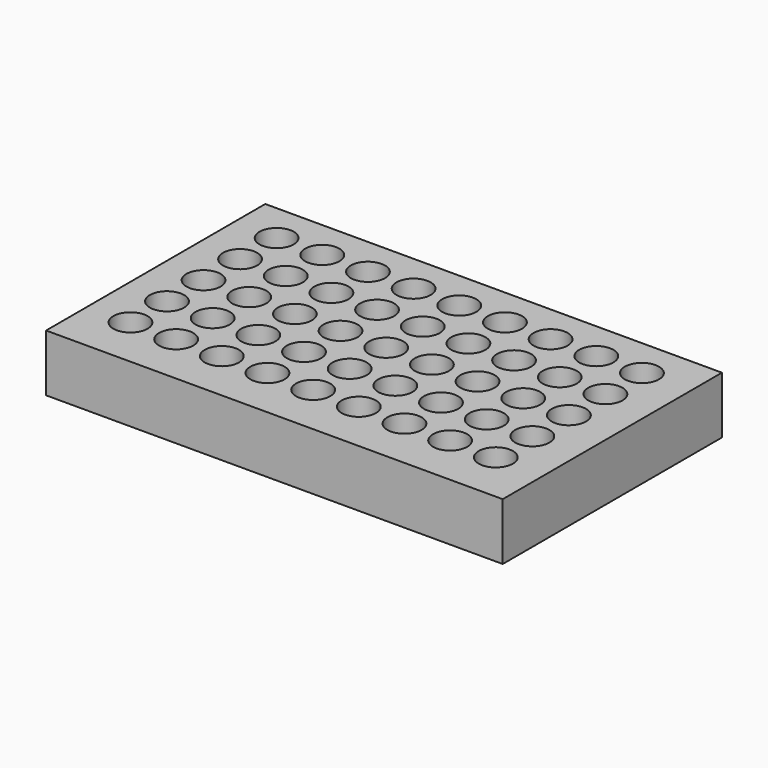
from build123d import *

# Parameters (mm, degrees)
F0_W     = 200
F0_H     = 120
F1_DEPTH = 25
F2_R     = 7.5
F3_DEPTH = 25


with BuildPart() as f1:
    # F0 (on Top) → F1 (new body)
    with BuildSketch(Plane.XY):
        Rectangle(F0_W, F0_H)
    extrude(amount=F1_DEPTH)

    # F2 (on face) → F3 (cut)
    with BuildSketch(Plane.XY.offset(25)):
        with Locations((-81.204847, 42.713255)):
            Circle(F2_R)
        with Locations((-81.204847, 22.713255)):
            Circle(F2_R)
        with Locations((-81.204847, 2.713255)):
            Circle(F2_R)
        with Locations((-81.204847, -17.286745)):
            Circle(F2_R)
        with Locations((-81.204847, -37.286745)):
            Circle(F2_R)
        with Locations((-61.204847, 42.713255)):
            Circle(F2_R)
        with Locations((-61.204847, 22.713255)):
            Circle(F2_R)
        with Locations((-61.204847, 2.713255)):
            Circle(F2_R)
        with Locations((-61.204847, -17.286745)):
            Circle(F2_R)
        with Locations((-61.204847, -37.286745)):
            Circle(F2_R)
        with Locations((-41.204847, 42.713255)):
            Circle(F2_R)
        with Locations((-41.204847, 22.713255)):
            Circle(F2_R)
        with Locations((-41.204847, 2.713255)):
            Circle(F2_R)
        with Locations((-41.204847, -17.286745)):
            Circle(F2_R)
        with Locations((-41.204847, -37.286745)):
            Circle(F2_R)
        with Locations((-21.204847, 42.713255)):
            Circle(F2_R)
        with Locations((-21.204847, 22.713255)):
            Circle(F2_R)
        with Locations((-21.204847, 2.713255)):
            Circle(F2_R)
        with Locations((-21.204847, -17.286745)):
            Circle(F2_R)
        with Locations((-21.204847, -37.286745)):
            Circle(F2_R)
        with Locations((-1.204847, 42.713255)):
            Circle(F2_R)
        with Locations((-1.204847, 22.713255)):
            Circle(F2_R)
        with Locations((-1.204847, 2.713255)):
            Circle(F2_R)
        with Locations((-1.204847, -17.286745)):
            Circle(F2_R)
        with Locations((-1.204847, -37.286745)):
            Circle(F2_R)
        with Locations((18.795153, 42.713255)):
            Circle(F2_R)
        with Locations((18.795153, 22.713255)):
            Circle(F2_R)
        with Locations((18.795153, 2.713255)):
            Circle(F2_R)
        with Locations((18.795153, -17.286745)):
            Circle(F2_R)
        with Locations((18.795153, -37.286745)):
            Circle(F2_R)
        with Locations((38.795153, 42.713255)):
            Circle(F2_R)
        with Locations((38.795153, 22.713255)):
            Circle(F2_R)
        with Locations((38.795153, 2.713255)):
            Circle(F2_R)
        with Locations((38.795153, -17.286745)):
            Circle(F2_R)
        with Locations((38.795153, -37.286745)):
            Circle(F2_R)
        with Locations((58.795153, 42.713255)):
            Circle(F2_R)
        with Locations((58.795153, 22.713255)):
            Circle(F2_R)
        with Locations((58.795153, 2.713255)):
            Circle(F2_R)
        with Locations((58.795153, -17.286745)):
            Circle(F2_R)
        with Locations((58.795153, -37.286745)):
            Circle(F2_R)
        with Locations((78.795153, 42.713255)):
            Circle(F2_R)
        with Locations((78.795153, 22.713255)):
            Circle(F2_R)
        with Locations((78.795153, 2.713255)):
            Circle(F2_R)
        with Locations((78.795153, -17.286745)):
            Circle(F2_R)
        with Locations((78.795153, -37.286745)):
            Circle(F2_R)
    extrude(amount=-F3_DEPTH, mode=Mode.SUBTRACT)


solid = f1.part
